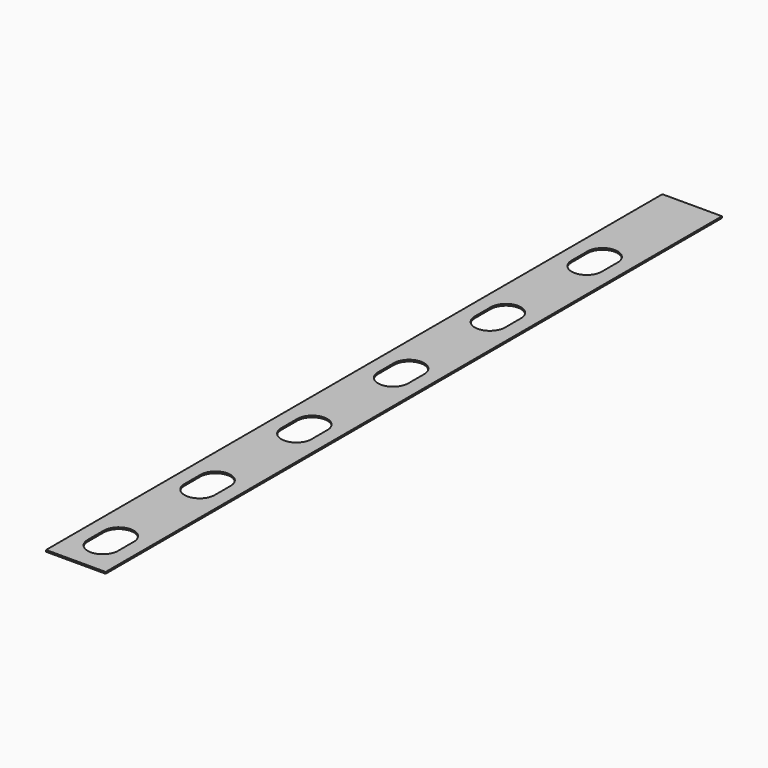
from build123d import *

# Parameters (mm, degrees)
F0_W     = 75
F0_H     = 970
F1_DEPTH = 2.1


with BuildPart() as f1:
    # F0 (on Top) → F1 (new body)
    with BuildSketch(Plane.XY):
        Rectangle(F0_W, F0_H)
        with BuildLine():
            ThreePointArc((19, -442.5), (0, -461.5), (-19, -442.5))
            Line((-19, -442.5), (-19, -417.5))
            ThreePointArc((-19, -417.5), (0, -398.5), (19, -417.5))
            Line((19, -417.5), (19, -442.5))
        make_face(mode=Mode.SUBTRACT)
        with BuildLine():
            ThreePointArc((19, -290.19), (0, -309.19), (-19, -290.19))
            Line((-19, -290.19), (-19, -265.19))
            ThreePointArc((-19, -265.19), (0, -246.19), (19, -265.19))
            Line((19, -265.19), (19, -290.19))
        make_face(mode=Mode.SUBTRACT)
        with BuildLine():
            ThreePointArc((19, -137.88), (0, -156.88), (-19, -137.88))
            Line((-19, -137.88), (-19, -112.88))
            ThreePointArc((-19, -112.88), (0, -93.88), (19, -112.88))
            Line((19, -112.88), (19, -137.88))
        make_face(mode=Mode.SUBTRACT)
        with BuildLine():
            ThreePointArc((19, 14.43), (0, -4.57), (-19, 14.43))
            Line((-19, 14.43), (-19, 39.43))
            ThreePointArc((-19, 39.43), (0, 58.43), (19, 39.43))
            Line((19, 39.43), (19, 14.43))
        make_face(mode=Mode.SUBTRACT)
        with BuildLine():
            ThreePointArc((19, 166.74), (0, 147.74), (-19, 166.74))
            Line((-19, 166.74), (-19, 191.74))
            ThreePointArc((-19, 191.74), (0, 210.74), (19, 191.74))
            Line((19, 191.74), (19, 166.74))
        make_face(mode=Mode.SUBTRACT)
        with BuildLine():
            ThreePointArc((19, 319.05), (0, 300.05), (-19, 319.05))
            Line((-19, 319.05), (-19, 344.05))
            ThreePointArc((-19, 344.05), (0, 363.05), (19, 344.05))
            Line((19, 344.05), (19, 319.05))
        make_face(mode=Mode.SUBTRACT)
        Rectangle(F0_W, F0_H)
        with BuildLine():
            ThreePointArc((19, -442.5), (0, -461.5), (-19, -442.5))
            Line((-19, -442.5), (-19, -417.5))
            ThreePointArc((-19, -417.5), (0, -398.5), (19, -417.5))
            Line((19, -417.5), (19, -442.5))
        make_face(mode=Mode.SUBTRACT)
        with BuildLine():
            ThreePointArc((19, -290.19), (0, -309.19), (-19, -290.19))
            Line((-19, -290.19), (-19, -265.19))
            ThreePointArc((-19, -265.19), (0, -246.19), (19, -265.19))
            Line((19, -265.19), (19, -290.19))
        make_face(mode=Mode.SUBTRACT)
        with BuildLine():
            ThreePointArc((19, -137.88), (0, -156.88), (-19, -137.88))
            Line((-19, -137.88), (-19, -112.88))
            ThreePointArc((-19, -112.88), (0, -93.88), (19, -112.88))
            Line((19, -112.88), (19, -137.88))
        make_face(mode=Mode.SUBTRACT)
        with BuildLine():
            ThreePointArc((19, 14.43), (0, -4.57), (-19, 14.43))
            Line((-19, 14.43), (-19, 39.43))
            ThreePointArc((-19, 39.43), (0, 58.43), (19, 39.43))
            Line((19, 39.43), (19, 14.43))
        make_face(mode=Mode.SUBTRACT)
        with BuildLine():
            ThreePointArc((19, 166.74), (0, 147.74), (-19, 166.74))
            Line((-19, 166.74), (-19, 191.74))
            ThreePointArc((-19, 191.74), (0, 210.74), (19, 191.74))
            Line((19, 191.74), (19, 166.74))
        make_face(mode=Mode.SUBTRACT)
        with BuildLine():
            ThreePointArc((19, 319.05), (0, 300.05), (-19, 319.05))
            Line((-19, 319.05), (-19, 344.05))
            ThreePointArc((-19, 344.05), (0, 363.05), (19, 344.05))
            Line((19, 344.05), (19, 319.05))
        make_face(mode=Mode.SUBTRACT)
    extrude(amount=F1_DEPTH)


solid = f1.part
